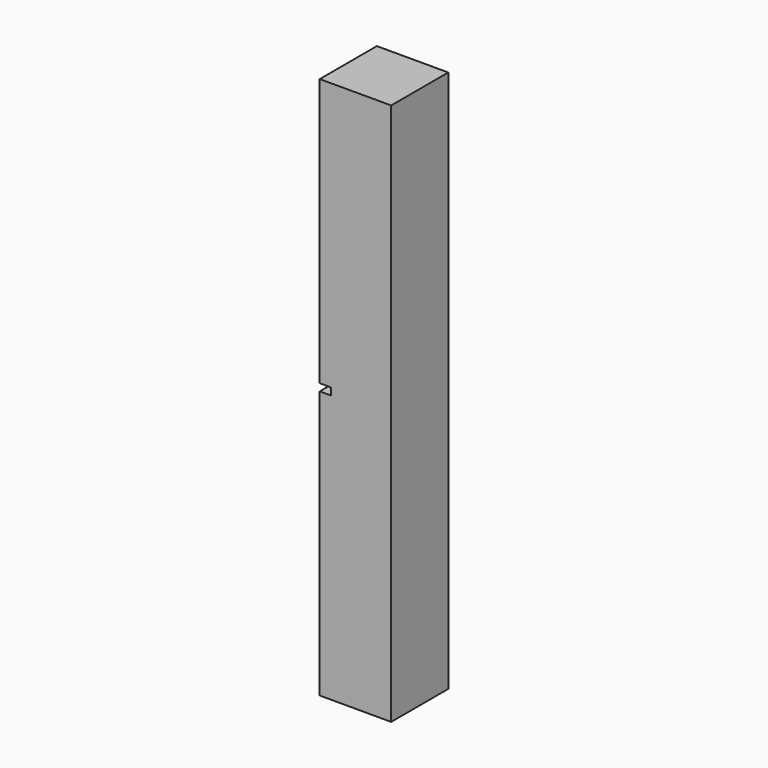
from build123d import *

# Parameters (mm, degrees)
F0_W     = 31.75
F0_H     = 31.75
F1_DEPTH = 120.65
F3_DEPTH = 5.08


with BuildPart() as f1:
    # F0 (on Top) → F1 (new body, symmetric)
    with BuildSketch(Plane.XY):
        Rectangle(F0_W, F0_H)
    extrude(amount=F1_DEPTH, both=True)

    # F2 (on face) → F3 (cut)
    with BuildSketch(Plane(origin=(-15.875, 0, 0), x_dir=(0, -1, 0), z_dir=(-1, 0, 0))):
        Polygon((15.875, 0), (15.875, 1.5875), (8.69188, 1.5875), (8.69188, 0), (8.69188, -1.5875), (15.875, -1.5875), align=None)
    extrude(amount=-F3_DEPTH, mode=Mode.SUBTRACT)


solid = f1.part
